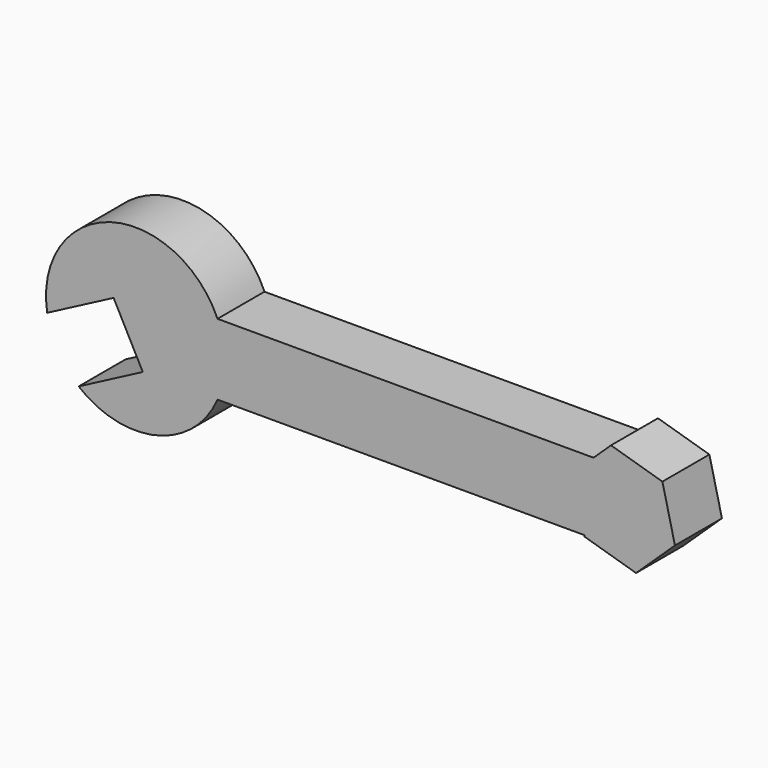
from build123d import *

# Parameters (mm, degrees)
F1_DEPTH = 25.4


with BuildPart() as f1:
    # F0 (on Front) → F1 (new body)
    with BuildSketch(Plane.XZ):
        with BuildLine():
            Line((-61.1549317837, 35.5927943523), (-61.1549317837, 60.286603868))
            Line((-61.1549317837, 60.286603868), (-25.6524790789, 60.286603868))
            ThreePointArc((-25.6524790789, 60.286603868), (-72.075895953, 82.0229648877), (-99.3306293284, 38.6088826876))
            Line((-99.3306293284, 38.6088826876), (-70.6015452743, 53.6437146366))
            Line((-70.6015452743, 53.6437146366), (-61.1549317837, 35.5927943523))
        make_face()
        Polygon((144.5545404922, 67.4580287096), (136.9994321616, 60.286603868), (149.972230196, 60.286603868), (149.972230196, 29.523069039), (133.0085049886, 29.523069039), (133.1494376177, 28.9363834122), (155.3899198997, 22.3516441974), (172.2127124781, 38.3200972387), (166.7950227743, 60.8732894948), align=None)
        Polygon((149.972230196, 60.286603868), (136.9994321616, 60.286603868), (127.7317479139, 51.4895756683), (133.0085049886, 29.523069039), (149.972230196, 29.523069039), align=None)
        with BuildLine():
            Line((136.9994321616, 60.286603868), (-25.6524790789, 60.286603868))
            ThreePointArc((-25.6524790789, 60.286603868), (-23.2691704782, 52.7592624129), (-22.463551389, 44.9048364535))
            ThreePointArc((-22.463551389, 44.9048364535), (-23.2691704782, 37.0504104941), (-25.6524790789, 29.523069039))
            Line((-25.6524790789, 29.523069039), (133.0085049886, 29.523069039))
            Line((133.0085049886, 29.523069039), (127.7317479139, 51.4895756683))
            Line((127.7317479139, 51.4895756683), (136.9994321616, 60.286603868))
        make_face()
        with BuildLine():
            Line((-25.6524790789, 60.286603868), (-61.1549317837, 60.286603868))
            Line((-61.1549317837, 60.286603868), (-61.1549317837, 35.5927943523))
            Line((-61.1549317837, 35.5927943523), (-57.9784539019, 29.523069039))
            Line((-57.9784539019, 29.523069039), (-25.6524790789, 29.523069039))
            ThreePointArc((-25.6524790789, 29.523069039), (-23.2691704782, 37.0504104941), (-22.463551389, 44.9048364535))
            ThreePointArc((-22.463551389, 44.9048364535), (-23.2691704782, 52.7592624129), (-25.6524790789, 60.286603868))
        make_face()
        with BuildLine():
            Line((-25.6524790789, 29.523069039), (-57.9784539019, 29.523069039))
            Line((-57.9784539019, 29.523069039), (-85.7148135594, 15.0077609442))
            ThreePointArc((-85.7148135594, 15.0077609442), (-52.0660095755, 7.2961352004), (-25.6524790789, 29.523069039))
        make_face()
    extrude(amount=F1_DEPTH)


solid = f1.part
